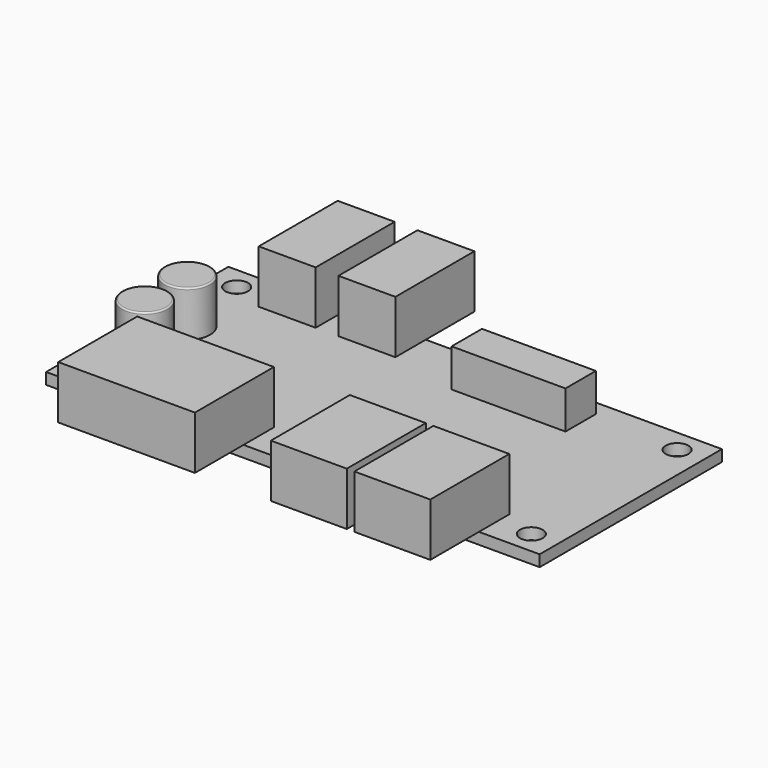
from build123d import *

# Parameters (mm, degrees)
F0_W      = 65
F0_H      = 30
F1_DEPTH  = 1.5
F2_R      = 1.5
F3_DEPTH  = 1.501
F4_R      = 3
F5_DEPTH  = 6
F6_R      = 0.2
F7_W      = 7.5
F7_H      = 13
F7_W_2    = 18
F7_W_3    = 10
F8_DEPTH  = 7
F9_W      = 15
F9_H      = 5
F10_DEPTH = 5


with BuildPart() as f1:
    # F0 (on Top) → F1 (new body)
    with BuildSketch(Plane.XY):
        Rectangle(F0_W, F0_H)
    extrude(amount=F1_DEPTH)

    # F2 (on face) → F3 (cut, through all)
    with BuildSketch(Plane.XY.offset(1.5)):
        with Locations((-29, 12)):
            Circle(F2_R)
        with Locations((-29, -12)):
            Circle(F2_R)
        with Locations((29, 12)):
            Circle(F2_R)
        with Locations((29, -12)):
            Circle(F2_R)
    extrude(amount=-F3_DEPTH, mode=Mode.SUBTRACT)

    # F4 (on face) → F5 (join)
    with BuildSketch(Plane.XY.offset(1.5)):
        with Locations((-27.5, 2)):
            Circle(F4_R)
        with Locations((-27.5, -5)):
            Circle(F4_R)
    extrude(amount=F5_DEPTH)

    # F6
    f6_edges = [f1.edges().sort_by_distance(p)[0] for p in [
        (-30.5, 2, 7.5),
        (-30.5, -5, 7.5),
    ]]
    fillet(f6_edges, radius=F6_R)

    # F7 (on face) → F8 (join)
    with BuildSketch(Plane.XY.offset(1.5)):
        with Locations((-20.75, 16.5)):
            Rectangle(F7_W, F7_H)
        with Locations((-10.25, 16.5)):
            Rectangle(F7_W, F7_H)
        with Locations((-15.5, -16.5)):
            Rectangle(F7_W_2, F7_H)
        with Locations((19.5, -16.5)):
            Rectangle(F7_W_3, F7_H)
        with Locations((8.5, -16.5)):
            Rectangle(F7_W_3, F7_H)
    extrude(amount=F8_DEPTH)

    # F9 (on face) → F10 (join)
    with BuildSketch(Plane.XY.offset(1.5)):
        with Locations((10, 10.5)):
            Rectangle(F9_W, F9_H)
    extrude(amount=F10_DEPTH)


solid = f1.part
